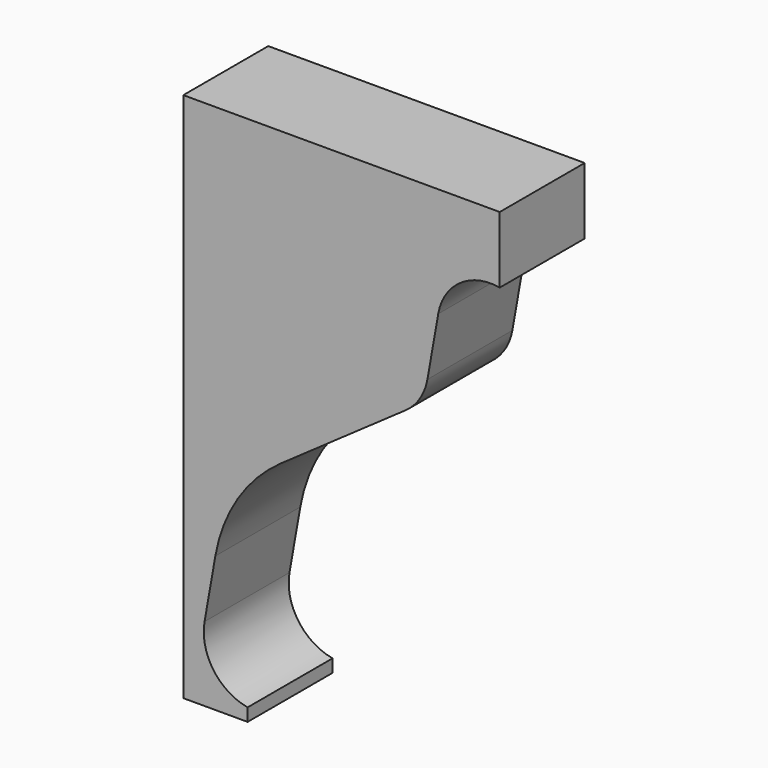
from build123d import *

# Parameters (mm, degrees)
F0_W     = 40
F0_H     = 50
F1_DEPTH = 10
F3_DEPTH = 10.001


with BuildPart() as f1:
    # F0 (on Front) → F1 (new body)
    with BuildSketch(Plane.XZ):
        with Locations((20, 25)):
            Rectangle(F0_W, F0_H)
    extrude(amount=F1_DEPTH)

    # F2 (on face) → F3 (cut, through all)
    with BuildSketch(Plane.XZ.offset(10)):
        with BuildLine():
            Line((3.017207, 12.76887), (2, 7))
            ThreePointArc((2, 7), (2.828279, 3.263877), (6.055798, 1.20772))
            Line((6.055798, 1.20772), (6.055798, 0))
            Line((6.055798, 0), (40, 0))
            Line((40, 0), (40, 50))
            Line((40, 50), (29.800625, 50))
            Line((29.800625, 50), (29.800625, 43.731))
            ThreePointArc((29.800625, 43.731), (26.064502, 42.902721), (24.008346, 39.675202))
            Line((24.008346, 39.675202), (22.991119, 33.906221))
            ThreePointArc((22.991119, 33.906221), (22.284063, 32.088005), (20.935041, 30.678757))
            Line((20.935041, 30.678757), (9.185442, 22.451263))
            ThreePointArc((9.185442, 22.451263), (5.138375, 18.22352), (3.017207, 12.76887))
        make_face()
    extrude(amount=-F3_DEPTH, mode=Mode.SUBTRACT)


solid = f1.part
